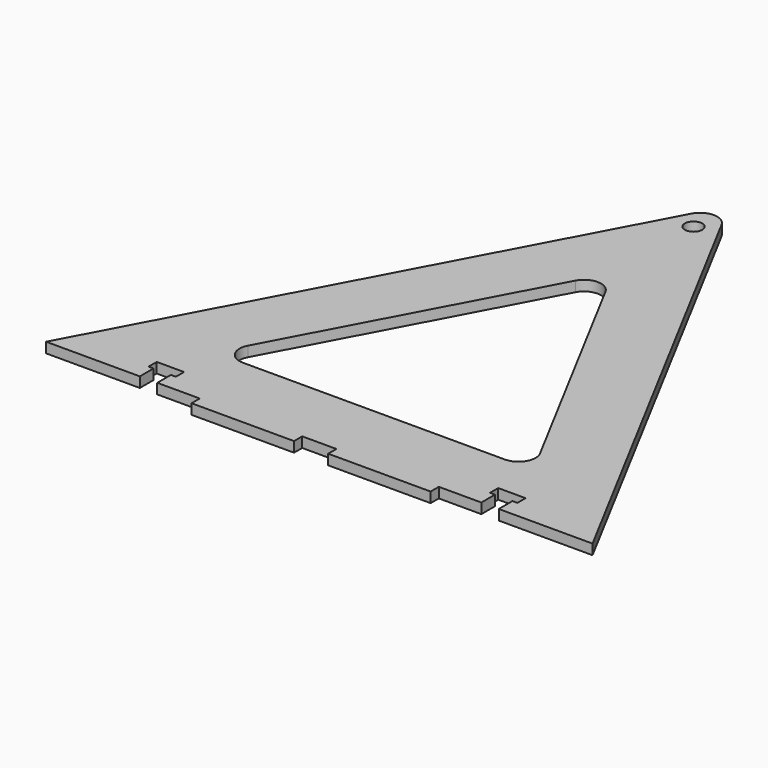
from build123d import *

# Parameters (mm, degrees)
F0_R     = 2.55
F1_DEPTH = 3
F2_R     = 5


with BuildPart() as f1:
    # F0 (on Top) → F1 (new body)
    with BuildSketch(Plane.XY):
        Polygon((0, 150), (-80, 0), (-52.55, 0), (-52.55, 5), (-54, 5), (-54, 8), (-52.55, 8), (-50, 8), (-47.45, 8), (-46, 8), (-46, 5), (-47.45, 5), (-47.45, 0), (-35, 0), (-35, -3), (-5, -3), (-5, 0), (0, 0), (5, 0), (5, -3), (35, -3), (35, 0), (47.45, 0), (47.45, 5), (46, 5), (46, 8), (47.45, 8), (50, 8), (52.55, 8), (54, 8), (54, 5), (52.55, 5), (52.55, 0), (80, 0), align=None)
        Polygon((46.666667, 20), (0, 20), (-46.666667, 20), (0, 107.5), align=None, mode=Mode.SUBTRACT)
        with Locations((0, 137)):
            Circle(F0_R, mode=Mode.SUBTRACT)
    extrude(amount=F1_DEPTH)

    # F2
    f2_edges = [f1.edges().sort_by_distance(p)[0] for p in [
        (0, 150, 1.5),
        (0, 107.5, 1.5),
        (46.666667, 20, 1.5),
        (-46.666667, 20, 1.5),
    ]]
    fillet(f2_edges, radius=F2_R)


solid = f1.part
